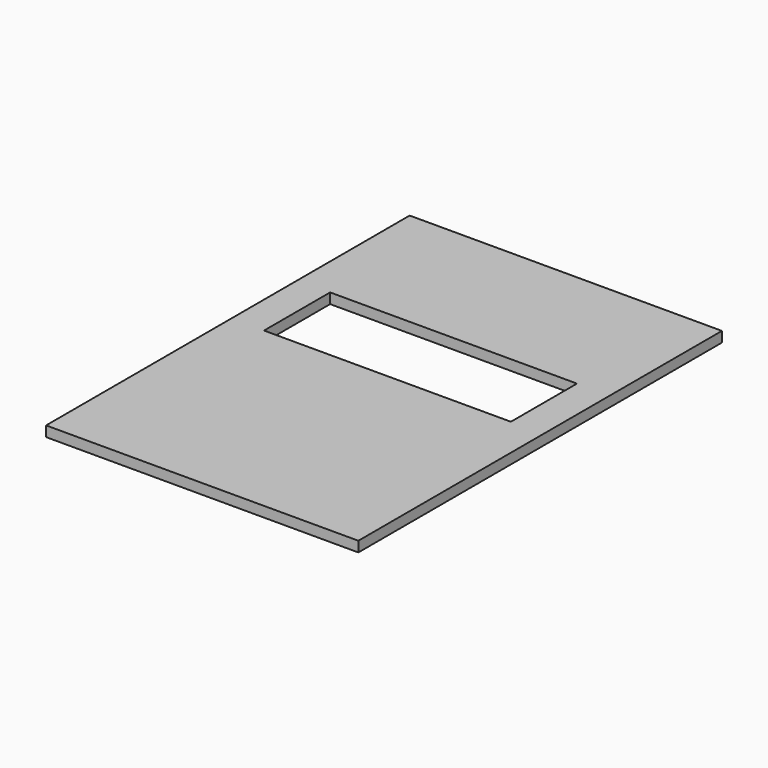
from build123d import *

# Parameters (mm, degrees)
F0_W     = 90.7
F0_H     = 132
F0_W_2   = 82.7
F0_H_2   = 116
F0_W_3   = 71.7
F0_H_3   = 24
F1_DEPTH = 3


with BuildPart() as f1:
    # F0 (on Top) → F1 (new body)
    with BuildSketch(Plane.XY):
        with Locations((41.35, 59)):
            Rectangle(F0_W, F0_H)
        with Locations((41.35, 58)):
            Rectangle(F0_W_2, F0_H_2, mode=Mode.SUBTRACT)
        with Locations((41.35, 58)):
            Rectangle(F0_W_2, F0_H_2)
        with Locations((41.35, 72.25)):
            Rectangle(F0_W_3, F0_H_3, mode=Mode.SUBTRACT)
    extrude(amount=F1_DEPTH)


solid = f1.part
